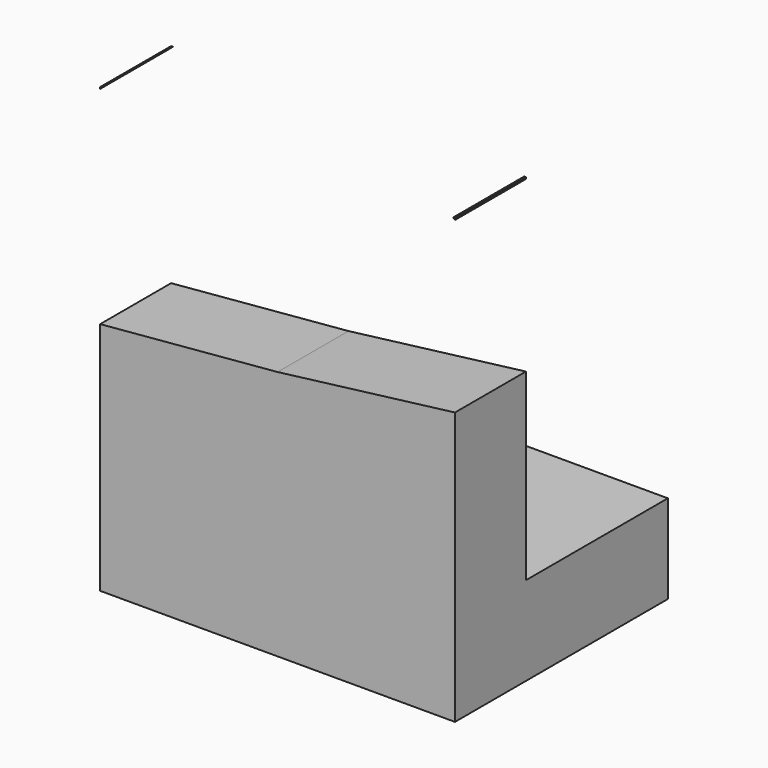
from build123d import *

# Parameters (mm, degrees)
F0_W          = 101.6
F0_H          = 25.4
F1_DEPTH      = 63.5
F2_W          = 101.6
F2_H          = 25.4
F3_DEPTH      = 50.8
F4_W          = 25.4
F4_H          = 19.05
F5_DEPTH      = 127
F6_W          = 25.4
F6_H          = 74.7540574521
F7_ANGLE_BACK = 95
F7_ANGLE      = 177.9160204785


with BuildPart() as f1:
    # F0 (on Top) → F1 (new body, symmetric)
    with BuildSketch(Plane.XY):
        with Locations((0, -12.7)):
            Rectangle(F0_W, F0_H)
    extrude(amount=F1_DEPTH, both=True)

    # F2 (on Front) → F3 (join)
    with BuildSketch(Plane.XZ):
        with Locations((0, -50.8)):
            Rectangle(F2_W, F2_H)
    extrude(amount=-F3_DEPTH)

    # F4 (on Top) → F5 (cut)
    with BuildSketch(Plane.XY):
        with Locations((-38.1, 41.275)):
            Rectangle(F4_W, F4_H)
    extrude(amount=-F5_DEPTH, mode=Mode.SUBTRACT)

    # F6 (on Right) → F7 (revolve, cut)
    with BuildSketch(Plane.YZ, mode=Mode.PRIVATE) as f7_sk:
        with Locations((-12.7, 45.561642386)):
            Rectangle(F6_W, F6_H)
    revolve(f7_sk.sketch.rotate(Axis((0, -12.7, 8.18461366), (0, 1, 0)), -F7_ANGLE_BACK), axis=Axis((0, -12.7, 8.18461366), (0, 1, 0)), revolution_arc=F7_ANGLE, mode=Mode.SUBTRACT)


solid = f1.part
